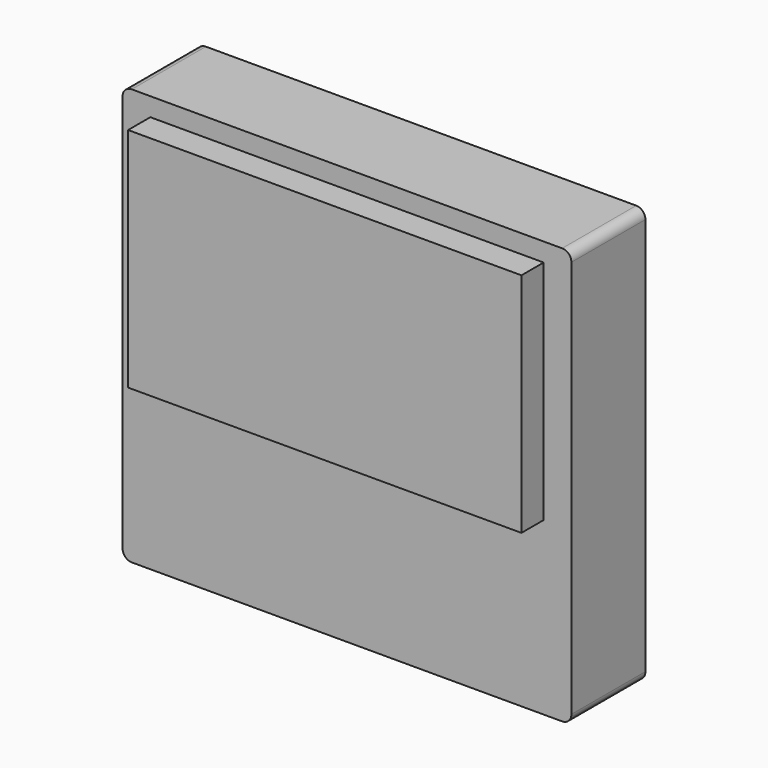
from build123d import *

# Parameters (mm, degrees)
SKETCH002_W  = 48.5
SKETCH002_H  = 45
PAD_DEPTH    = 10
SKETCH003_W  = 42.5
SKETCH003_H  = 24.5
PAD002_DEPTH = 3
SKETCH004_W  = 17.5
SKETCH004_H  = 18
PAD003_DEPTH = 12
FILLET_R     = 1
FILLET001_R  = 8.5


with BuildPart() as part:
    # Sketch002 → Pad (new body)
    with BuildSketch(Plane.XZ):
        Rectangle(SKETCH002_W, SKETCH002_H)
    extrude(amount=PAD_DEPTH)

    # Sketch003 (on Face6 of Pad) → Pad002 (join)
    with BuildSketch(Plane.XZ.offset(10)):
        with Locations((0, 8.25)):
            Rectangle(SKETCH003_W, SKETCH003_H)
    extrude(amount=PAD002_DEPTH)

    # Sketch004 (on Face4 of Pad002) → Pad003 (join)
    with BuildSketch(Plane(origin=(0, 0, 0), x_dir=(1, 0, 0), z_dir=(0, 1, 0))):
        with Locations((0, 12)):
            Rectangle(SKETCH004_W, SKETCH004_H)
    extrude(amount=PAD003_DEPTH)

    # Fillet
    fillet_edges = [part.edges().sort_by_distance(p)[0] for p in [
        (24.25, -5, 22.5),
        (24.25, -5, -22.5),
        (-24.25, -5, 22.5),
        (-24.25, -5, -22.5),
    ]]
    fillet(fillet_edges, radius=FILLET_R)

    # Fillet001
    fillet001_edges = [part.edges().sort_by_distance(p)[0] for p in [
        (8.75, 6, -3),
        (-8.75, 6, -3),
    ]]
    fillet(fillet001_edges, radius=FILLET001_R)


with BuildPart() as part_1:
    # Body placement: moved
    add(part.part.moved(Location((0, 10, 0))))


solid = part_1.part
